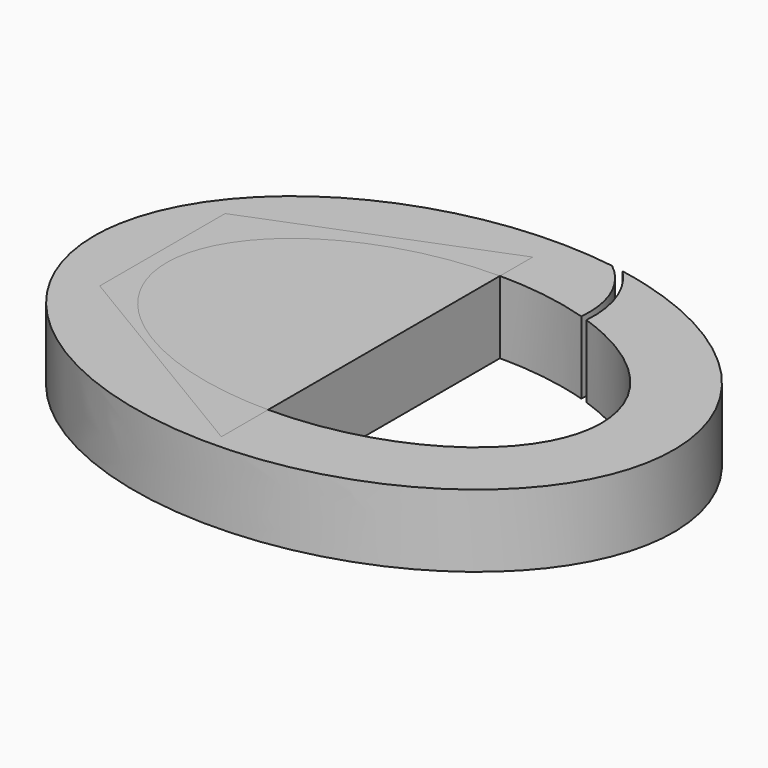
from build123d import *

# Parameters (mm, degrees)
F1_DEPTH = 3.175
F3_DEPTH = 25.4
F5_DEPTH = 3.175
F7_DEPTH = 25.4


with BuildPart() as f1:
    # F0 (on Top) → F1 (new body)
    with BuildSketch(Plane.XY):
        with BuildLine():
            add(Edge.make_bspline(
                [(-12.7, 0), (-12.7, -16.4977839421), (6.35, -8.248891971), (25.4, 0), (6.35, 8.248891971), (-12.7, 16.4977839421), (-12.7, 0)],
                knots=[0, 0, 0, 2.0943951024, 2.0943951024, 4.1887902048, 4.1887902048, 6.2831853072, 6.2831853072, 6.2831853072], degree=2, weights=[1, 0.5, 1, 0.5, 1, 0.5, 1]))
        make_face()
    extrude(amount=F1_DEPTH)

    # F2 (on face) → F3 (cut)
    with BuildSketch(Plane.XY.offset(3.175)):
        with BuildLine():
            add(Edge.make_bspline(
                [(9.525, 0), (9.525, 10.9985226281), (-4.7625, 5.499261314), (-19.05, 0), (-4.7625, -5.499261314), (9.525, -10.9985226281), (9.525, 0)],
                knots=[0, 0, 0, 2.0943951024, 2.0943951024, 4.1887902048, 4.1887902048, 6.2831853072, 6.2831853072, 6.2831853072], degree=2, weights=[1, 0.5, 1, 0.5, 1, 0.5, 1]))
        make_face()
    extrude(amount=-F3_DEPTH, mode=Mode.SUBTRACT)

    # F4 (on Top) → F5 (join)
    with BuildSketch(Plane.XY):
        Polygon((0, -8.9111542329), (0, 8.1416685134), (-10.233101435, 4.0858616121), (-10.233101435, -2.7813557535), align=None)
    extrude(amount=F5_DEPTH)

    # F6 (on face) → F7 (cut)
    with BuildSketch(Plane.XY.offset(3.175)):
        with BuildLine():
            ThreePointArc((2.5266178398, 9.334599016), (3.7464169195, 7.7368947977), (4.0447358353, 5.7490380653))
            ThreePointArc((4.0447358353, 5.7490380653), (4.1637538527, 5.5969636499), (4.3496567574, 5.6492324392))
            ThreePointArc((4.3496567574, 5.6492324392), (4.0968642454, 7.5891250366), (3.0555001293, 9.2452192735))
            ThreePointArc((3.0555001293, 9.2452192735), (2.8151884248, 9.4326890771), (2.5266178398, 9.334599016))
        make_face()
    extrude(amount=-F7_DEPTH, mode=Mode.SUBTRACT)


solid = f1.part
